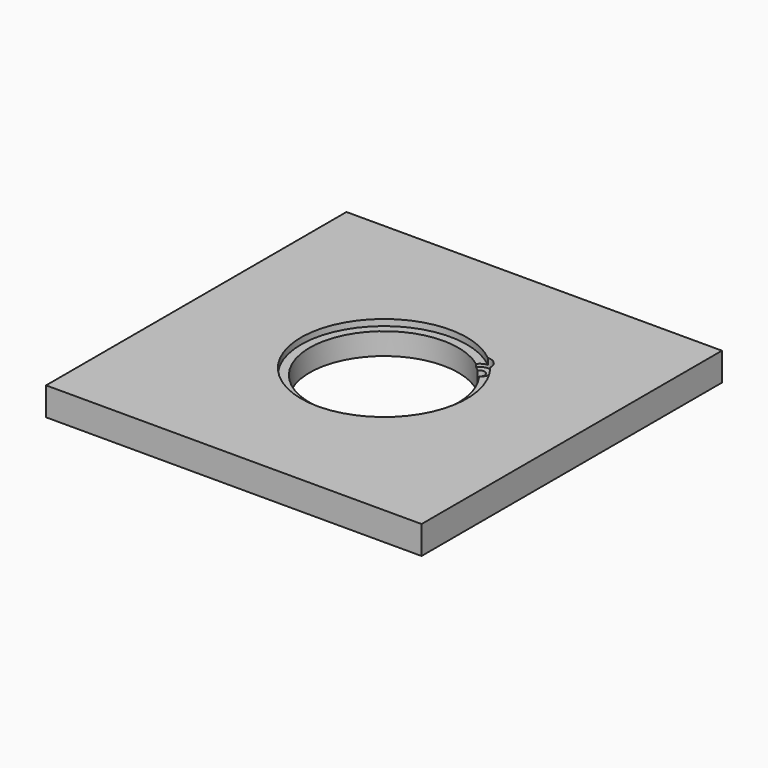
from build123d import *

# Parameters (mm, degrees)
SKETCH_W            = 120
SKETCH_H            = 120
PAD_DEPTH           = 9
HOLE002_D           = 47.5
HOLE002_DEPTH       = 25
HOLE002_CBORE_D     = 53
HOLE002_CBORE_DEPTH = 2
CYLINDER_R          = 3.5
CYLINDER_DEPTH      = 39
HOLE003_D           = 3.23
HOLE003_CBORE_D     = 7
HOLE003_CBORE_DEPTH = 2.91


with BuildPart() as part:
    # Sketch → Pad (new body)
    with BuildSketch(Plane(origin=(0, 0, 0), x_dir=(-1, 0, 0), z_dir=(0, 0, -1))):
        with Locations((0, 60)):
            Rectangle(SKETCH_W, SKETCH_H)
    extrude(amount=PAD_DEPTH)

    # Hole002
    with Locations(Plane(origin=(0, 60, 0), x_dir=(1, 0, 0), z_dir=(0, 0, 1))):
        with Locations((0, 0)):
            CounterBoreHole(HOLE002_D / 2, HOLE002_CBORE_D / 2, HOLE002_CBORE_DEPTH, depth=HOLE002_DEPTH)

    # Cylinder → Cylinder (join)
    with BuildSketch(Plane(origin=(17, 77, 39), x_dir=(0, 1, 0), z_dir=(0, 0, 1))):
        Circle(CYLINDER_R)
    extrude(amount=CYLINDER_DEPTH)

    # Hole003 (through all)
    with Locations(Plane(origin=(0, 60, 0), x_dir=(1, 0, 0), z_dir=(0, 0, 1))):
        with Locations((17, 17)):
            CounterBoreHole(HOLE003_D / 2, HOLE003_CBORE_D / 2, HOLE003_CBORE_DEPTH)


solid = part.part
